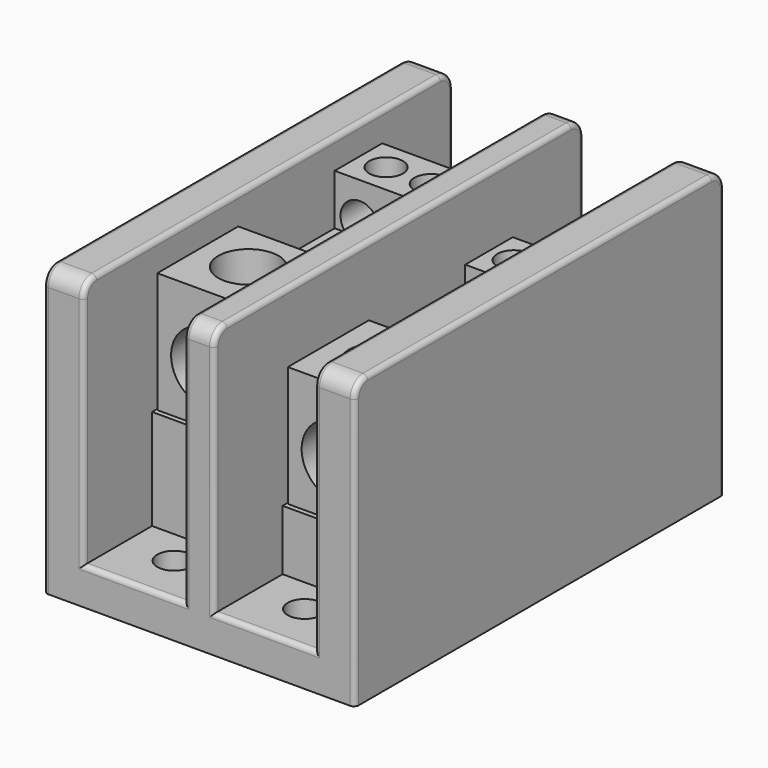
from build123d import *

# Parameters (mm, degrees)
F0_W      = 49.2125
F0_H      = 73.025
F1_DEPTH  = 45.24375
F2_W      = 15.875
F2_H      = 73.025
F3_DEPTH  = 39.40175
F4_R      = 2.667
F5_DEPTH  = 5.842
F6_R      = 2.54
F7_R      = 0.762
F8_W      = 15.875
F8_H      = 46.0375
F9_DEPTH  = 15.875
F10_W     = 15.875
F10_H     = 46.0375
F11_DEPTH = 9.525
F13_DEPTH = 19.05
F15_DEPTH = 19.05
F16_R     = 4.7625
F17_DEPTH = 14.2875
F18_R     = 4.7625
F19_DEPTH = 14.2875
F20_R     = 5.55625
F21_DEPTH = 15.875
F22_R     = 5.55625
F23_DEPTH = 15.875
F24_W     = 15.478125
F24_H     = 9.525
F26_DEPTH = 6.35
F25_W     = 15.478125
F25_H     = 9.525
F27_DEPTH = 6.35
F28_W     = 15.478125
F28_H     = 9.525
F29_DEPTH = 8.001
F30_W     = 15.478125
F30_H     = 9.525
F31_DEPTH = 8.001
F32_R     = 3.048
F33_DEPTH = 9.525
F34_R     = 3.048
F35_DEPTH = 19.05
F36_R     = 2.667
F37_DEPTH = 8.73125
F38_R     = 2.667
F39_DEPTH = 8.73125
F40_R     = 2.5796875
F41_DEPTH = 12.7
F42_R     = 2.5796875
F43_DEPTH = 12.7
F44_R     = 2.667
F45_DEPTH = 8.73125
F46_R     = 2.667
F47_DEPTH = 8.73125
F48_R     = 3.048
F49_DEPTH = 9.525
F50_R     = 3.048
F51_DEPTH = 19.05


with BuildPart() as f1:
    # F0 (on Top) → F1 (new body)
    with BuildSketch(Plane.XY):
        Rectangle(F0_W, F0_H)
    extrude(amount=F1_DEPTH)

    # F2 (on face) → F3 (cut)
    with BuildSketch(Plane.XY.offset(45.24375)):
        with Locations((-10.31875, 0)):
            Rectangle(F2_W, F2_H)
        with Locations((10.31875, 0)):
            Rectangle(F2_W, F2_H)
    extrude(amount=-F3_DEPTH, mode=Mode.SUBTRACT)

    # F4 (on face) → F5 (cut)
    with BuildSketch(Plane.XY.offset(5.842)):
        with Locations((-10.31875, 28.575)):
            Circle(F4_R)
        with Locations((-10.31875, -28.575)):
            Circle(F4_R)
        with Locations((10.31875, 28.575)):
            Circle(F4_R)
        with Locations((10.31875, -28.575)):
            Circle(F4_R)
    extrude(amount=-F5_DEPTH, mode=Mode.SUBTRACT)

    # F6
    f6_edges = [f1.edges().sort_by_distance(p)[0] for p in [
        (-21.43125, 36.5125, 45.24375),
        (0, 36.5125, 45.24375),
        (21.43125, 36.5125, 45.24375),
        (-21.43125, -36.5125, 45.24375),
        (0, -36.5125, 45.24375),
        (21.43125, -36.5125, 45.24375),
    ]]
    fillet(f6_edges, radius=F6_R)

    # F7
    f7_edges = [f1.edges().sort_by_distance(p)[0] for p in [
        (-10.31875, 36.5125, 5.842),
        (10.31875, 36.5125, 5.842),
        (-10.31875, -36.5125, 5.842),
        (10.31875, -36.5125, 5.842),
        (-24.60625, -36.5125, 21.351875),
        (-18.25625, -36.5125, 24.272875),
        (2.38125, -36.5125, 24.272875),
        (24.60625, -36.5125, 21.351875),
        (18.25625, -36.5125, 24.272875),
        (-2.38125, -36.5125, 24.272875),
    ]]
    fillet(f7_edges, radius=F7_R)

    # F8 (on face) → F9 (join)
    with BuildSketch(Plane.XY.offset(5.842)):
        with Locations((-10.31875, 0)):
            Rectangle(F8_W, F8_H)
    extrude(amount=F9_DEPTH)

    # F10 (on face) → F11 (join)
    with BuildSketch(Plane.XY.offset(5.842)):
        with Locations((10.31875, 0)):
            Rectangle(F10_W, F10_H)
    extrude(amount=F11_DEPTH)


with BuildPart() as f13:
    # F12 (on face) → F13 (new body)
    with BuildSketch(Plane.XY.offset(21.717)):
        Polygon((-18.0578125, 22.225), (-18.0578125, -22.225), (-2.5796875, -22.225), (-2.5796875, 22.225), align=None)
    extrude(amount=F13_DEPTH)

    # F16 (on face) → F17 (cut)
    with BuildSketch(Plane.XY.offset(40.767)):
        with Locations((-10.31875, -13.890625)):
            Circle(F16_R)
    extrude(amount=-F17_DEPTH, mode=Mode.SUBTRACT)

    # F20 (on face) → F21 (cut)
    with BuildSketch(Plane.XZ.offset(22.225)):
        with Locations((-10.31875, 30.051375)):
            Circle(F20_R)
    extrude(amount=-F21_DEPTH, mode=Mode.SUBTRACT)

    # F24 (on face) → F26 (cut)
    with BuildSketch(Plane.XY.offset(40.767)):
        with Locations((-10.31875, -1.4605)):
            Rectangle(F24_W, F24_H)
    extrude(amount=-F26_DEPTH, mode=Mode.SUBTRACT)

    # F28 (on face) → F29 (cut)
    with BuildSketch(Plane.XY.offset(40.767)):
        with Locations((-10.31875, 8.0645)):
            Rectangle(F28_W, F28_H)
    extrude(amount=-F29_DEPTH, mode=Mode.SUBTRACT)

    # F42 (on face) → F43 (cut)
    with BuildSketch(Plane.XY.offset(34.417)):
        with Locations((-10.31875, -1.4605)):
            Circle(F42_R)
    extrude(amount=-F43_DEPTH, mode=Mode.SUBTRACT)

    # F44 (on face) → F45 (cut)
    with BuildSketch(Plane.XY.offset(40.767)):
        with Locations((-13.6921875, 17.526)):
            Circle(F44_R)
        with Locations((-6.5484375, 17.526)):
            Circle(F44_R)
    extrude(amount=-F45_DEPTH, mode=Mode.SUBTRACT)

    # F46 (on face) → F47 (cut)
    with BuildSketch(Plane.XY.offset(32.766)):
        with Locations((-13.6921875, 8.0645)):
            Circle(F46_R)
        with Locations((-6.5484375, 8.0645)):
            Circle(F46_R)
    extrude(amount=-F47_DEPTH, mode=Mode.SUBTRACT)

    # F48 (on face) → F49 (cut)
    with BuildSketch(Plane(origin=(0, 22.225, 0), x_dir=(-1, 0, 0), z_dir=(0, 1, 0))):
        with Locations((6.9453125, 34.813875)):
            Circle(F48_R)
        with Locations((14.0890625, 34.813875)):
            Circle(F48_R)
    extrude(amount=-F49_DEPTH, mode=Mode.SUBTRACT)

    # F50 (on face) → F51 (cut)
    with BuildSketch(Plane(origin=(0, 22.225, 0), x_dir=(-1, 0, 0), z_dir=(0, 1, 0))):
        with Locations((6.9453125, 26.876375)):
            Circle(F50_R)
        with Locations((14.0890625, 26.876375)):
            Circle(F50_R)
    extrude(amount=-F51_DEPTH, mode=Mode.SUBTRACT)


with BuildPart() as f15:
    # F14 (on face) → F15 (new body)
    with BuildSketch(Plane.XY.offset(15.367)):
        Polygon((2.5796875, 22.225), (2.5796875, -22.225), (18.0578125, -22.225), (18.0578125, 22.225), align=None)
    extrude(amount=F15_DEPTH)

    # F18 (on face) → F19 (cut)
    with BuildSketch(Plane.XY.offset(34.417)):
        with Locations((10.31875, -13.890625)):
            Circle(F18_R)
    extrude(amount=-F19_DEPTH, mode=Mode.SUBTRACT)

    # F22 (on face) → F23 (cut)
    with BuildSketch(Plane.XZ.offset(22.225)):
        with Locations((10.31875, 23.701375)):
            Circle(F22_R)
    extrude(amount=-F23_DEPTH, mode=Mode.SUBTRACT)

    # F25 (on face) → F27 (cut)
    with BuildSketch(Plane.XY.offset(34.417)):
        with Locations((10.31875, -1.4605)):
            Rectangle(F25_W, F25_H)
    extrude(amount=-F27_DEPTH, mode=Mode.SUBTRACT)

    # F30 (on face) → F31 (cut)
    with BuildSketch(Plane.XY.offset(34.417)):
        with Locations((10.31875, 8.0645)):
            Rectangle(F30_W, F30_H)
    extrude(amount=-F31_DEPTH, mode=Mode.SUBTRACT)

    # F32 (on face) → F33 (cut)
    with BuildSketch(Plane(origin=(0, 22.225, 0), x_dir=(-1, 0, 0), z_dir=(0, 1, 0))):
        with Locations((-13.6921875, 28.463875)):
            Circle(F32_R)
        with Locations((-6.5484375, 28.463875)):
            Circle(F32_R)
    extrude(amount=-F33_DEPTH, mode=Mode.SUBTRACT)

    # F34 (on face) → F35 (cut)
    with BuildSketch(Plane(origin=(0, 22.225, 0), x_dir=(-1, 0, 0), z_dir=(0, 1, 0))):
        with Locations((-13.6921875, 20.526375)):
            Circle(F34_R)
        with Locations((-6.5484375, 20.526375)):
            Circle(F34_R)
    extrude(amount=-F35_DEPTH, mode=Mode.SUBTRACT)

    # F36 (on face) → F37 (cut)
    with BuildSketch(Plane.XY.offset(34.417)):
        with Locations((6.5484375, 17.526)):
            Circle(F36_R)
        with Locations((13.6921875, 17.526)):
            Circle(F36_R)
    extrude(amount=-F37_DEPTH, mode=Mode.SUBTRACT)

    # F38 (on face) → F39 (cut)
    with BuildSketch(Plane.XY.offset(26.416)):
        with Locations((6.5484375, 8.0645)):
            Circle(F38_R)
        with Locations((13.6921875, 8.0645)):
            Circle(F38_R)
    extrude(amount=-F39_DEPTH, mode=Mode.SUBTRACT)

    # F40 (on face) → F41 (cut)
    with BuildSketch(Plane.XY.offset(28.067)):
        with Locations((10.31875, -1.4605)):
            Circle(F40_R)
    extrude(amount=-F41_DEPTH, mode=Mode.SUBTRACT)


solid = Compound([f1.part, f13.part, f15.part])
